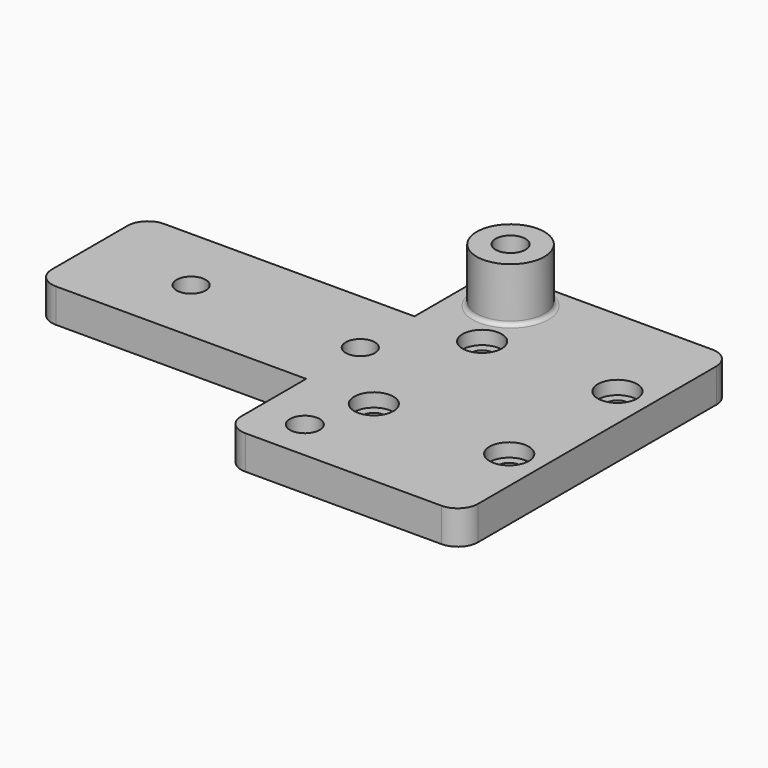
from build123d import *

# Parameters (mm, degrees)
SKETCH_R        = 1.6
SKETCH_R_2      = 2.15
SKETCH_R_3      = 2.2
PAD_DEPTH       = 5
SKETCH001_R     = 2.9
POCKET_DEPTH    = 2
SKETCH002_R     = 5
PAD001_DEPTH    = 8
SKETCH003_R     = 2.2
POCKET001_DEPTH = 3
FILLET_R        = 0.6
FILLET001_R     = 3
FILLET002_R     = 3


with BuildPart() as part:
    # Sketch → Pad (new body)
    with BuildSketch(Plane.XY):
        Polygon((-20, 25), (15, 25), (15, -25), (-20, -25), (-20, -10), (-60, -10), (-60, 10), (-20, 10), align=None)
        with Locations((-10, 10)):
            Circle(SKETCH_R, mode=Mode.SUBTRACT)
        with Locations((10, 10)):
            Circle(SKETCH_R, mode=Mode.SUBTRACT)
        with Locations((10, -10)):
            Circle(SKETCH_R, mode=Mode.SUBTRACT)
        with Locations((-10, -10)):
            Circle(SKETCH_R, mode=Mode.SUBTRACT)
        with Locations((-20, 0)):
            Circle(SKETCH_R_2, mode=Mode.SUBTRACT)
        with Locations((-45, 0)):
            Circle(SKETCH_R_2, mode=Mode.SUBTRACT)
        with Locations((-13, 19)):
            Circle(SKETCH_R_3, mode=Mode.SUBTRACT)
        with Locations((-13, -19)):
            Circle(SKETCH_R_3, mode=Mode.SUBTRACT)
    extrude(amount=PAD_DEPTH)

    # Sketch001 → Pocket (cut)
    with BuildSketch(Plane.XY.offset(5)):
        with Locations((-10, 10)):
            Circle(SKETCH001_R)
        with Locations((10, 10)):
            Circle(SKETCH001_R)
        with Locations((10, -10)):
            Circle(SKETCH001_R)
        with Locations((-10, -10)):
            Circle(SKETCH001_R)
    extrude(amount=-POCKET_DEPTH, mode=Mode.SUBTRACT)

    # Sketch002 → Pad001 (new body)
    with BuildSketch(Plane.XY.offset(5)):
        with Locations((-13, 19)):
            Circle(SKETCH002_R)
    extrude(amount=PAD001_DEPTH)

    # Sketch003 → Pocket001 (cut)
    with BuildSketch(Plane.XY.offset(13)):
        with Locations((-13, 19)):
            Circle(SKETCH003_R)
    extrude(amount=-POCKET001_DEPTH, mode=Mode.SUBTRACT)

    # Fillet
    fillet_edges = [part.edges().sort_by_distance(p)[0] for p in [
        (-18, 19, 5),
    ]]
    fillet(fillet_edges, radius=FILLET_R)

    # Fillet001
    fillet001_edges = [part.edges().sort_by_distance(p)[0] for p in [
        (-20, -25, 2.5),
        (-20, 25, 2.5),
        (15, 25, 2.5),
        (15, -25, 2.5),
    ]]
    fillet(fillet001_edges, radius=FILLET001_R)

    # Fillet002
    fillet002_edges = [part.edges().sort_by_distance(p)[0] for p in [
        (-60, 10, 2.5),
        (-60, -10, 2.5),
    ]]
    fillet(fillet002_edges, radius=FILLET002_R)


solid = part.part
